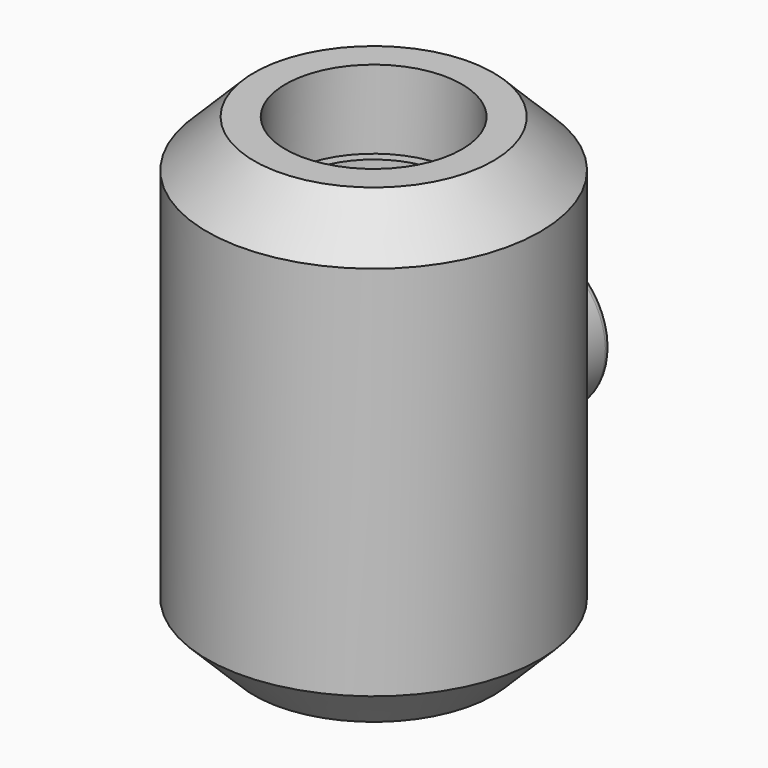
from build123d import *

# Parameters (mm, degrees)
F0_R          = 14.2875
F0_R_2        = 12.7
F2_DEPTH      = 50.8
F3_R          = 26.9875
F3_R_2        = 14.2875
F4_DEPTH      = 63.5
F4_DEPTH_BACK = 12.7
F5_SIZE       = 7.62
F7_START      = -26.67
F7_DEPTH      = 6.35
F8_R          = 1.27


with BuildPart() as f2:
    # F0 (on Top) → F2 (new body)
    with BuildSketch(Plane.XY):
        Circle(F0_R)
        Circle(F0_R_2, mode=Mode.SUBTRACT)
    extrude(amount=F2_DEPTH)

    # F3 (on face) → F4 (join, two sides)
    with BuildSketch(Plane.XY) as f4_sk:
        Circle(F3_R)
        Circle(F3_R_2, mode=Mode.SUBTRACT)
    extrude(amount=F4_DEPTH)
    extrude(f4_sk.sketch, amount=-F4_DEPTH_BACK)

    # F5
    f5_edges = [f2.edges().sort_by_distance(p)[0] for p in [
        (-26.9875, 0, 63.5),
        (-26.9875, 0, -12.7),
    ]]
    chamfer(f5_edges, length=F5_SIZE)

    # F6 (on Front) → F7 (join)
    with BuildSketch(Plane.XZ.offset(F7_START)):
        with BuildLine():
            ThreePointArc((0, 9.1674418672), (8.5704498555, 12.717438433), (12.1204464213, 21.2878882885))
            ThreePointArc((12.1204464213, 21.2878882885), (7.8117209816, 30.5551552404), (-2.0510178584, 33.233538007))
            ThreePointArc((-2.0510178584, 33.233538007), (-12.0766681836, 20.2586618626), (0, 9.1674418672))
        make_face()
        with BuildLine():
            ThreePointArc((0, 9.1674418672), (-12.0766681836, 20.2586618626), (-2.0510178584, 33.233538007))
            Line((-2.0510178584, 33.233538007), (-48.4348551439, 25.2696280601))
            ThreePointArc((-48.4348551439, 25.2696280601), (-41.8358763876, 23.4775709789), (-38.9529867456, 17.2770116073))
            ThreePointArc((-38.9529867456, 17.2770116073), (-41.32822473, 11.5426798516), (-47.0625564857, 9.1674418672))
            Line((-47.0625564857, 9.1674418672), (0, 9.1674418672))
        make_face()
        with BuildLine():
            ThreePointArc((-38.9529867456, 17.2770116073), (-41.8358763876, 23.4775709789), (-48.4348551439, 25.2696280601))
            ThreePointArc((-48.4348551439, 25.2696280601), (-55.142835005, 16.5883749689), (-47.0625564857, 9.1674418672))
            ThreePointArc((-47.0625564857, 9.1674418672), (-41.32822473, 11.5426798516), (-38.9529867456, 17.2770116073))
        make_face()
    extrude(amount=-F7_DEPTH)

    # F8
    f8_edges = [f2.edges().sort_by_distance(p)[0] for p in [
        (12.076668, 33.02, 22.317115),
        (-25.242937, 33.02, 29.251583),
        (-55.142835, 33.02, 16.588375),
        (-23.531278, 33.02, 9.167442),
    ]]
    fillet(f8_edges, radius=F8_R)


solid = f2.part
